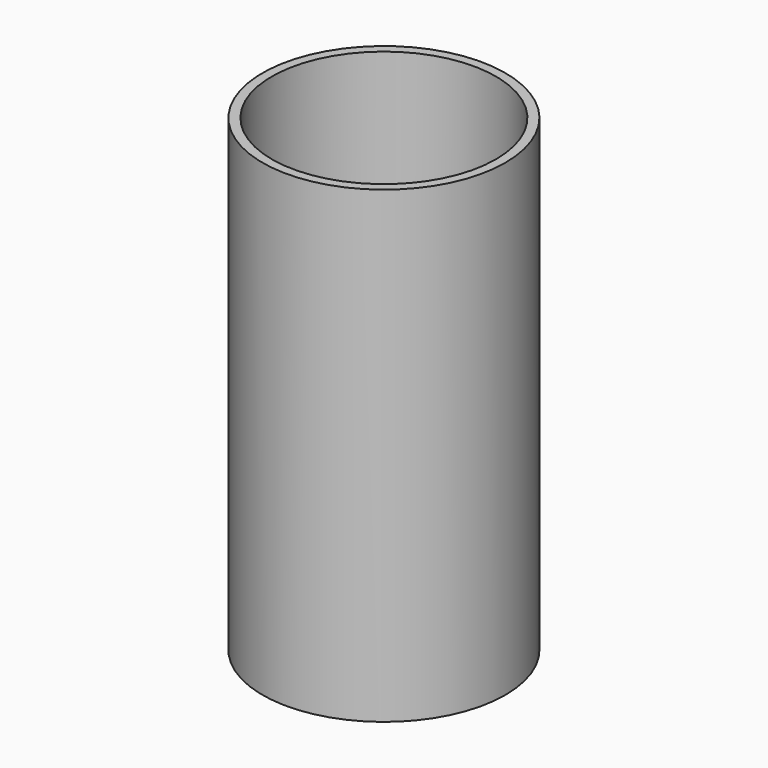
from build123d import *

# Parameters (mm, degrees)
F0_R     = 32.922454
F1_DEPTH = 127
F2_T     = -2.54


with BuildPart() as f1:
    # F0 (on Top) → F1 (new body)
    with BuildSketch(Plane.XY):
        with Locations((-2.016289, 3.024433)):
            Circle(F0_R)
    extrude(amount=F1_DEPTH)

    # F2
    f2_openings = [f1.faces().sort_by_distance(p)[0] for p in [
        (-2.016289, 3.024433, 127),
        (-2.016289, 3.024433, 0),
    ]]
    offset(amount=F2_T, openings=f2_openings)


solid = f1.part
